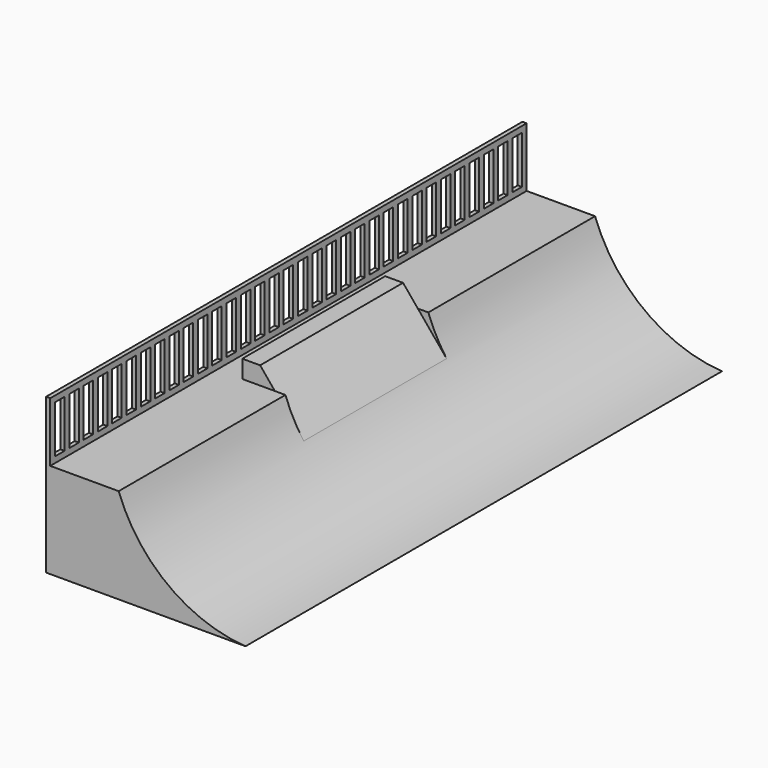
from build123d import *

# Parameters (mm, degrees)
F0_W      = 1219.2
F0_H      = 10000
F1_DEPTH  = 1600.2
F4_W      = 10000
F4_H      = 1000
F4_W_2    = 200
F4_H_2    = 800
F5_DEPTH  = 70
F9_DEPTH  = 1500
F10_DEPTH = 1500


with BuildPart() as f1:
    # F0 (on Top) → F1 (new body)
    with BuildSketch(Plane.XY):
        with Locations((-4390.4, 0)):
            Rectangle(F0_W, F0_H)
    extrude(amount=F1_DEPTH)

    # F3: sweep along a path in F3_path
    with BuildLine(Plane(origin=(-3780.8, -5000, 1600.2), x_dir=(0, -1, 0), z_dir=(0, 0, -1))) as f3_path:
        Line((0, 0), (-10000, 0))
    # F2 (on face) → F3 (sweep)
    with BuildSketch(Plane.XZ.offset(5000)):
        with BuildLine():
            ThreePointArc((-1650.5727613571, 0), (-2953.5607884704, 483.4354937794), (-3780.8, 1600.2))
            Line((-3780.8, 1600.2), (-3780.8, 0))
            Line((-3780.8, 0), (-1650.5727613571, 0))
        make_face()
    sweep(path=f3_path.line)

    # F4 (on face) → F5 (join)
    with BuildSketch(Plane(origin=(-5000, 0, 0), x_dir=(0, -1, 0), z_dir=(-1, 0, 0))):
        with Locations((0, 2100.2)):
            Rectangle(F4_W, F4_H)
        with Locations((-4800, 2100.2)):
            Rectangle(F4_W_2, F4_H_2, mode=Mode.SUBTRACT)
        with Locations((-4500, 2100.2)):
            Rectangle(F4_W_2, F4_H_2, mode=Mode.SUBTRACT)
        with Locations((-4200, 2100.2)):
            Rectangle(F4_W_2, F4_H_2, mode=Mode.SUBTRACT)
        with Locations((-3900, 2100.2)):
            Rectangle(F4_W_2, F4_H_2, mode=Mode.SUBTRACT)
        with Locations((-3600, 2100.2)):
            Rectangle(F4_W_2, F4_H_2, mode=Mode.SUBTRACT)
        with Locations((-3300, 2100.2)):
            Rectangle(F4_W_2, F4_H_2, mode=Mode.SUBTRACT)
        with Locations((-3000, 2100.2)):
            Rectangle(F4_W_2, F4_H_2, mode=Mode.SUBTRACT)
        with Locations((-2700, 2100.2)):
            Rectangle(F4_W_2, F4_H_2, mode=Mode.SUBTRACT)
        with Locations((-2400, 2100.2)):
            Rectangle(F4_W_2, F4_H_2, mode=Mode.SUBTRACT)
        with Locations((-2100, 2100.2)):
            Rectangle(F4_W_2, F4_H_2, mode=Mode.SUBTRACT)
        with Locations((-1800, 2100.2)):
            Rectangle(F4_W_2, F4_H_2, mode=Mode.SUBTRACT)
        with Locations((-1500, 2100.2)):
            Rectangle(F4_W_2, F4_H_2, mode=Mode.SUBTRACT)
        with Locations((-1200, 2100.2)):
            Rectangle(F4_W_2, F4_H_2, mode=Mode.SUBTRACT)
        with Locations((-900, 2100.2)):
            Rectangle(F4_W_2, F4_H_2, mode=Mode.SUBTRACT)
        with Locations((-600, 2100.2)):
            Rectangle(F4_W_2, F4_H_2, mode=Mode.SUBTRACT)
        with Locations((-300, 2100.2)):
            Rectangle(F4_W_2, F4_H_2, mode=Mode.SUBTRACT)
        with Locations((0, 2100.2)):
            Rectangle(F4_W_2, F4_H_2, mode=Mode.SUBTRACT)
        with Locations((300, 2100.2)):
            Rectangle(F4_W_2, F4_H_2, mode=Mode.SUBTRACT)
        with Locations((600, 2100.2)):
            Rectangle(F4_W_2, F4_H_2, mode=Mode.SUBTRACT)
        with Locations((900, 2100.2)):
            Rectangle(F4_W_2, F4_H_2, mode=Mode.SUBTRACT)
        with Locations((1200, 2100.2)):
            Rectangle(F4_W_2, F4_H_2, mode=Mode.SUBTRACT)
        with Locations((1500, 2100.2)):
            Rectangle(F4_W_2, F4_H_2, mode=Mode.SUBTRACT)
        with Locations((1800, 2100.2)):
            Rectangle(F4_W_2, F4_H_2, mode=Mode.SUBTRACT)
        with Locations((2100, 2100.2)):
            Rectangle(F4_W_2, F4_H_2, mode=Mode.SUBTRACT)
        with Locations((2400, 2100.2)):
            Rectangle(F4_W_2, F4_H_2, mode=Mode.SUBTRACT)
        with Locations((2700, 2100.2)):
            Rectangle(F4_W_2, F4_H_2, mode=Mode.SUBTRACT)
        with Locations((3000, 2100.2)):
            Rectangle(F4_W_2, F4_H_2, mode=Mode.SUBTRACT)
        with Locations((3300, 2100.2)):
            Rectangle(F4_W_2, F4_H_2, mode=Mode.SUBTRACT)
        with Locations((3600, 2100.2)):
            Rectangle(F4_W_2, F4_H_2, mode=Mode.SUBTRACT)
        with Locations((3900, 2100.2)):
            Rectangle(F4_W_2, F4_H_2, mode=Mode.SUBTRACT)
        with Locations((4200, 2100.2)):
            Rectangle(F4_W_2, F4_H_2, mode=Mode.SUBTRACT)
        with Locations((4500, 2100.2)):
            Rectangle(F4_W_2, F4_H_2, mode=Mode.SUBTRACT)
        with Locations((4800, 2100.2)):
            Rectangle(F4_W_2, F4_H_2, mode=Mode.SUBTRACT)
    extrude(amount=-F5_DEPTH)

    # F8 (on face) → F9 (join, symmetric)
    with BuildSketch(Plane.XZ):
        Polygon((-4505.2851068323, 1600.2), (-3956.9200410682, 1600.2), (-4205.2851068323, 1900.2), (-4505.2851068323, 1900.2), align=None)
    extrude(amount=F9_DEPTH, both=True)

    # F8 (on face) → F10 (cut, symmetric)
    with BuildSketch(Plane.XZ):
        Polygon((-4205.2851068323, 1900.2), (-3956.9200410682, 1600.2), (-3334.445476532, 848.3133818626), (-3353.2772064209, 1927.1024372101), align=None)
    extrude(amount=F10_DEPTH, both=True, mode=Mode.SUBTRACT)


solid = f1.part
